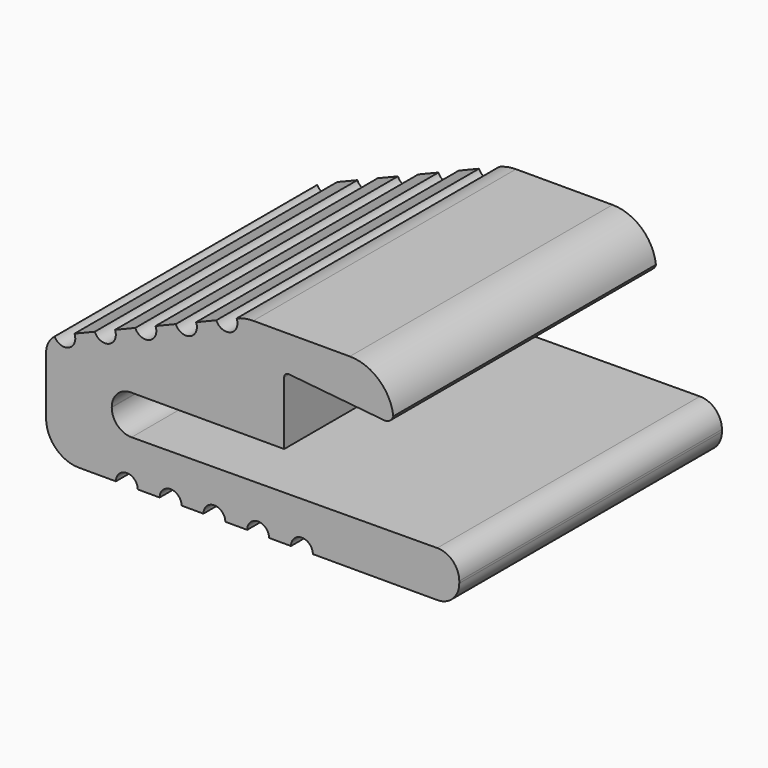
from build123d import *

# Parameters (mm, degrees)
F1_DEPTH = 15


with BuildPart() as f1:
    # F0 (on Front) → F1 (new body)
    with BuildSketch(Plane.XZ):
        with BuildLine():
            ThreePointArc((-42.397197, 32.873584), (-41.957858, 31.812924), (-40.897197, 31.373584))
            Line((-40.897197, 31.373584), (-39.208615, 31.373584))
            ThreePointArc((-39.208615, 31.373584), (-38.708615, 31.873584), (-38.208615, 31.373584))
            Line((-38.208615, 31.373584), (-37.208615, 31.373584))
            ThreePointArc((-37.208615, 31.373584), (-36.708615, 31.873584), (-36.208615, 31.373584))
            Line((-36.208615, 31.373584), (-35.208615, 31.373584))
            ThreePointArc((-35.208615, 31.373584), (-34.708615, 31.873584), (-34.208615, 31.373584))
            Line((-34.208615, 31.373584), (-33.208615, 31.373584))
            ThreePointArc((-33.208615, 31.373584), (-32.708615, 31.873584), (-32.208615, 31.373584))
            Line((-32.208615, 31.373584), (-31.208615, 31.373584))
            ThreePointArc((-31.208615, 31.373584), (-30.708615, 31.873584), (-30.208615, 31.373584))
            Line((-30.208615, 31.373584), (-24.520033, 31.373584))
            ThreePointArc((-24.520033, 31.373584), (-23.812927, 31.666477), (-23.520033, 32.373584))
            Line((-23.520033, 32.373584), (-23.520033, 32.467266))
            ThreePointArc((-23.520033, 32.467266), (-23.815157, 33.176596), (-24.526332, 33.467246))
            Line((-24.526332, 33.467246), (-38.491529, 33.379288))
            ThreePointArc((-38.491529, 33.379288), (-39.131586, 33.640873), (-39.397197, 34.27927))
            Line((-39.397197, 34.27927), (-39.397197, 34.29642))
            ThreePointArc((-39.397197, 34.29642), (-39.140282, 34.916669), (-38.520033, 35.173584))
            Line((-38.520033, 35.173584), (-31.520033, 35.173584))
            Line((-31.520033, 35.173584), (-31.520033, 38.052587))
            ThreePointArc((-31.520033, 38.052587), (-31.454234, 38.200877), (-31.300133, 38.251594))
            Line((-31.300133, 38.251594), (-26.959835, 37.817564))
            ThreePointArc((-26.959835, 37.817564), (-26.693337, 37.886021), (-26.534105, 38.110415))
            ThreePointArc((-26.534105, 38.110415), (-27.19219, 39.369188), (-28.520033, 39.873584))
            Line((-28.520033, 39.873584), (-32.928533, 39.873584))
            ThreePointArc((-32.928533, 39.873584), (-33.313533, 39.836178), (-33.684132, 39.725359))
            Line((-33.684132, 39.725359), (-33.692541, 39.721927))
            ThreePointArc((-33.692541, 39.721927), (-33.966585, 39.070084), (-34.618429, 39.344128))
            Line((-34.618429, 39.344128), (-35.544316, 38.966328))
            ThreePointArc((-35.544316, 38.966328), (-35.81836, 38.314484), (-36.470203, 38.588528))
            Line((-36.470203, 38.588528), (-37.39609, 38.210728))
            ThreePointArc((-37.39609, 38.210728), (-37.670134, 37.558885), (-38.321978, 37.832928))
            Line((-38.321978, 37.832928), (-39.247865, 37.455129))
            ThreePointArc((-39.247865, 37.455129), (-39.521909, 36.803285), (-40.173752, 37.077329))
            Line((-40.173752, 37.077329), (-41.09964, 36.699529))
            ThreePointArc((-41.09964, 36.699529), (-41.356708, 36.054981), (-42.010314, 36.28806))
            ThreePointArc((-42.010314, 36.28806), (-42.295283, 35.937888), (-42.397197, 35.498068))
            Line((-42.397197, 35.498068), (-42.397197, 32.873584))
        make_face()
    extrude(amount=F1_DEPTH)


solid = f1.part
